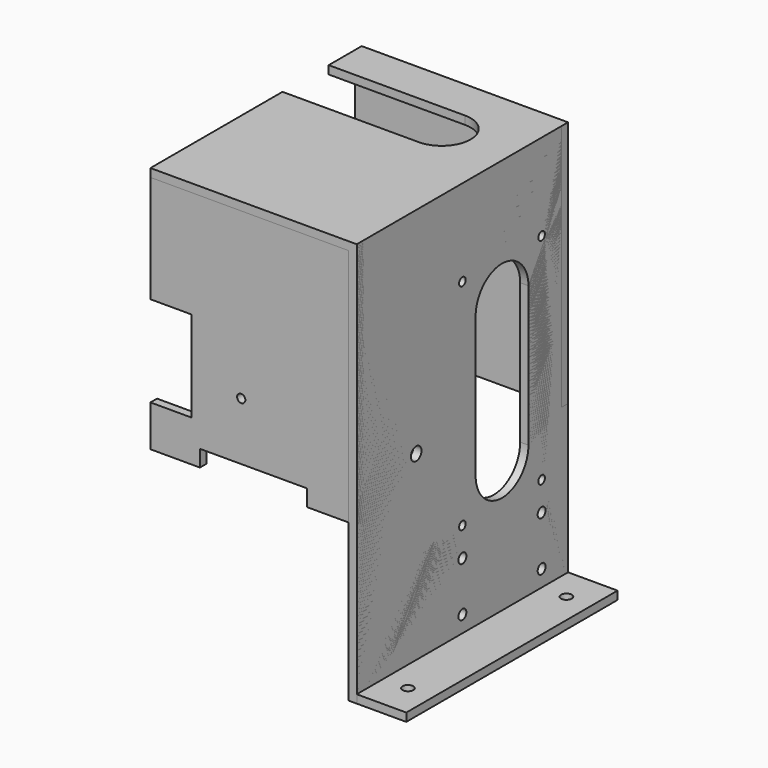
from build123d import *

# Parameters (mm, degrees)
F0_W      = 0.004675
F0_H      = 240
F0_H_2    = 5
F1_DEPTH  = 160
F2_W      = 125
F2_H      = 150
F3_DEPTH  = 5
F7_DEPTH  = 25
F8_W      = 160
F8_H      = 5
F9_DEPTH  = 30
F10_R     = 3.25
F11_DEPTH = 25
F13_DEPTH = 5.004675
F14_R     = 2.5
F15_DEPTH = 5.004675
F16_W     = 25
F16_H     = 55
F17_DEPTH = 5
F18_R     = 2.5
F18_W     = 65
F18_H     = 10
F19_DEPTH = 5
F20_R     = 4
F20_R_2   = 3
F21_DEPTH = 5.004675


with BuildPart() as f1:
    # F0 (on Front) → F1 (new body)
    with BuildSketch(Plane.XZ):
        Polygon((62.495325, 122.5), (-62.5, 122.5), (-62.5, 117.5), (57.495325, 117.5), (57.495325, -122.5), (62.495325, -122.5), (62.495325, 117.5), align=None)
        with Locations((62.497662, -2.5)):
            Rectangle(F0_W, F0_H)
        with Locations((62.497662, 120)):
            Rectangle(F0_W, F0_H_2)
    extrude(amount=F1_DEPTH)

    # F2 (on face) → F3 (join)
    with BuildSketch(Plane.XZ.offset(160)):
        with Locations((0, 47.5)):
            Rectangle(F2_W, F2_H)
    extrude(amount=-F3_DEPTH)


with BuildPart() as f5_1:
    # F5: instance of F1
    add(f1.part.mirror(Plane(origin=(1.483739, -80, 44.470582), x_dir=(1, 0, 0), z_dir=(0, -1, 0))))


with BuildPart() as f7_tool:
    # F6 (on face) → F7 (new body)
    with BuildSketch(Plane.XY.offset(122.5)):
        with BuildLine():
            Line((-62.5, -25), (-62.5, -60))
            Line((-62.5, -60), (20, -60))
            ThreePointArc((20, -60), (37.5, -42.5), (20, -25))
            Line((20, -25), (-62.5, -25))
        make_face()
    extrude(amount=-F7_DEPTH)


with BuildPart() as f1_1:
    add(f1.part)

    # F7: cut by f7_tool
    add(f7_tool.part, mode=Mode.SUBTRACT)


with BuildPart() as f5_1_1:
    add(f5_1.part)

    # F7: cut by f7_tool
    add(f7_tool.part, mode=Mode.SUBTRACT)


with BuildPart() as f9:
    # F8 (on face) → F9 (new body)
    with BuildSketch(Plane.YZ.offset(62.5)):
        with Locations((-80, -120)):
            Rectangle(F8_W, F8_H)
    extrude(amount=F9_DEPTH)

    # F10 (on face) → F11 (cut)
    with BuildSketch(Plane.XY.offset(-117.5)):
        with Locations((77.5, -140)):
            Circle(F10_R)
        with Locations((77.5, -20)):
            Circle(F10_R)
    extrude(amount=-F11_DEPTH, mode=Mode.SUBTRACT)


with BuildPart() as f13_tool:
    # F12 (on face) → F13 (new body, through all)
    with BuildSketch(Plane.YZ.offset(62.5)):
        with BuildLine():
            Line((-30, -37.5), (-30, 47.5))
            ThreePointArc((-30, 47.5), (-50, 67.5), (-70, 47.5))
            Line((-70, 47.5), (-70, -37.5))
            ThreePointArc((-70, -37.5), (-50, -57.5), (-30, -37.5))
        make_face()
    extrude(amount=-F13_DEPTH)


with BuildPart() as f1_2:
    add(f1_1.part)

    # F13: cut by f13_tool
    add(f13_tool.part, mode=Mode.SUBTRACT)


with BuildPart() as f5_1_2:
    add(f5_1_1.part)

    # F13: cut by f13_tool
    add(f13_tool.part, mode=Mode.SUBTRACT)


with BuildPart() as f15_tool:
    # F14 (on face) → F15 (new body, through all)
    with BuildSketch(Plane.YZ.offset(62.5)):
        with Locations((-80, 70)):
            Circle(F14_R)
        with Locations((-20, 70)):
            Circle(F14_R)
        with Locations((-20, -60)):
            Circle(F14_R)
        with Locations((-80, -60)):
            Circle(F14_R)
    extrude(amount=-F15_DEPTH)


with BuildPart() as f1_3:
    add(f1_2.part)

    # F15: cut by f15_tool
    add(f15_tool.part, mode=Mode.SUBTRACT)

    # F16 (on face) → F17 (cut, through all)
    with BuildSketch(Plane.XZ.offset(160)):
        with Locations((-50, 25)):
            Rectangle(F16_W, F16_H)
    extrude(amount=-F17_DEPTH, mode=Mode.SUBTRACT)

    # F18 (on face) → F19 (cut, through all)
    with BuildSketch(Plane.XZ.offset(160)):
        with Locations((-7.5, 17.5)):
            Circle(F18_R)
        with Locations((0, -22.5)):
            Rectangle(F18_W, F18_H)
    extrude(amount=-F19_DEPTH, mode=Mode.SUBTRACT)


with BuildPart() as f5_1_3:
    add(f5_1_2.part)

    # F15: cut by f15_tool
    add(f15_tool.part, mode=Mode.SUBTRACT)


with BuildPart() as f21_tool:
    # F20 (on face) → F21 (new body, through all)
    with BuildSketch(Plane.YZ.offset(62.5)):
        with Locations((-115, -7.5)):
            Circle(F20_R)
        with Locations((-80, -77.5)):
            Circle(F20_R_2)
        with Locations((-20, -77.5)):
            Circle(F20_R_2)
        with Locations((-80, -107.5)):
            Circle(F20_R_2)
        with Locations((-20, -107.5)):
            Circle(F20_R_2)
    extrude(amount=-F21_DEPTH)


with BuildPart() as f1_4:
    add(f1_3.part)

    # F21: cut by f21_tool
    add(f21_tool.part, mode=Mode.SUBTRACT)


with BuildPart() as f5_1_4:
    add(f5_1_3.part)

    # F21: cut by f21_tool
    add(f21_tool.part, mode=Mode.SUBTRACT)


solid = Compound([f9.part, f1_4.part, f5_1_4.part])
